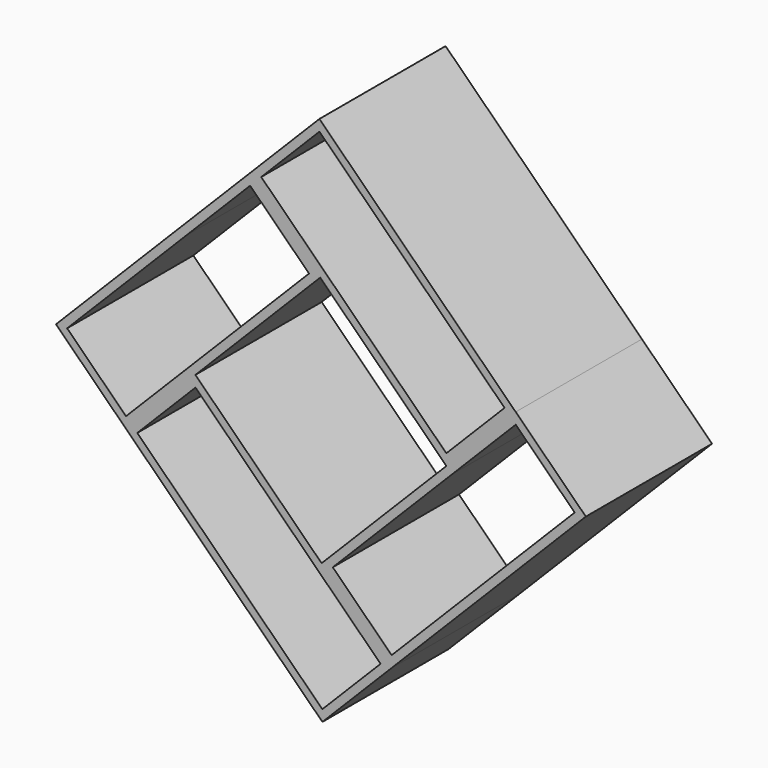
from build123d import *

# Parameters (mm, degrees)
F1_DEPTH = 200


with BuildPart() as f1:
    # F0 (on Front) → F1 (new body)
    with BuildSketch(Plane.XZ):
        Polygon((0, 158.19292), (160, 0), (247.884956, 88.888889), (-1.003933, 334.966765), (-88.888889, 246.077876), align=None)
        Polygon((-74.746981, 246.158191), (-0.923619, 320.824857), (233.743048, 88.808574), (159.919685, 14.141908), align=None, mode=Mode.SUBTRACT)
        Polygon((247.884956, 88.888889), (160, 0), (1.80708, -160), (90.695969, -247.884956), (336.773845, 1.003933), align=None)
        Polygon((15.948987, -159.919685), (167.111111, -7.030796), (247.96527, 74.746981), (322.631937, 0.923619), (90.615654, -233.743048), align=None, mode=Mode.SUBTRACT)
        Polygon((-158.19292, -1.80708), (0, 158.19292), (-88.888889, 246.077876), (-176.773845, 157.188987), (-334.966765, -2.811013), (-246.077876, -90.695969), align=None)
        Polygon((-14.141908, 158.112606), (-246.158191, -76.554061), (-320.824857, -2.730698), (-169.662733, 150.158191), (-88.808574, 231.935968), align=None, mode=Mode.SUBTRACT)
        Polygon((90.695969, -247.884956), (1.80708, -160), (-158.19292, -1.80708), (-246.077876, -90.695969), (2.811013, -336.773845), align=None)
        Polygon((2.730698, -322.631937), (-231.935968, -90.615654), (-158.112606, -15.948987), (76.554061, -247.96527), align=None, mode=Mode.SUBTRACT)
    extrude(amount=F1_DEPTH)


solid = f1.part
